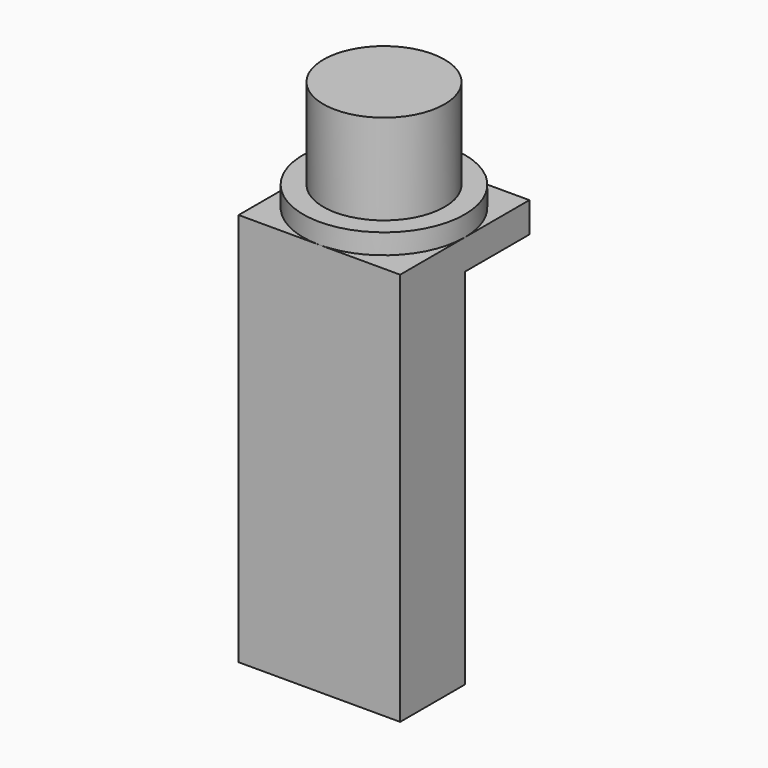
from build123d import *

# Parameters (mm, degrees)
F0_W     = 12.7
F0_H     = 12.7
F1_DEPTH = 30.95625
F2_R     = 6.35
F3_DEPTH = 1.5875
F4_R     = 4.7625
F5_DEPTH = 7.112
F6_W     = 6.35
F6_H     = 28.575
F7_DEPTH = 12.7
F8_R     = 1.7272
F9_DEPTH = 4.7625


with BuildPart() as f1:
    # F0 (on Top) → F1 (new body)
    with BuildSketch(Plane.XY):
        Rectangle(F0_W, F0_H)
    extrude(amount=F1_DEPTH)

    # F2 (on face) → F3 (join)
    with BuildSketch(Plane.XY.offset(30.95625)):
        Circle(F2_R)
    extrude(amount=F3_DEPTH)

    # F4 (on face) → F5 (join)
    with BuildSketch(Plane.XY.offset(32.54375)):
        Circle(F4_R)
    extrude(amount=F5_DEPTH)

    # F6 (on face) → F7 (cut, through all)
    with BuildSketch(Plane(origin=(-6.35, 0, 0), x_dir=(0, -1, 0), z_dir=(-1, 0, 0))):
        with Locations((-3.175, 14.2875)):
            Rectangle(F6_W, F6_H)
    extrude(amount=-F7_DEPTH, mode=Mode.SUBTRACT)

    # F8 (on face) → F9 (cut)
    with BuildSketch(Plane(origin=(0, 0, 0), x_dir=(-1, 0, 0), z_dir=(0, 1, 0))):
        with Locations((0, 23.8125)):
            Circle(F8_R)
        with Locations((0, 4.7625)):
            Circle(F8_R)
    extrude(amount=-F9_DEPTH, mode=Mode.SUBTRACT)


solid = f1.part
